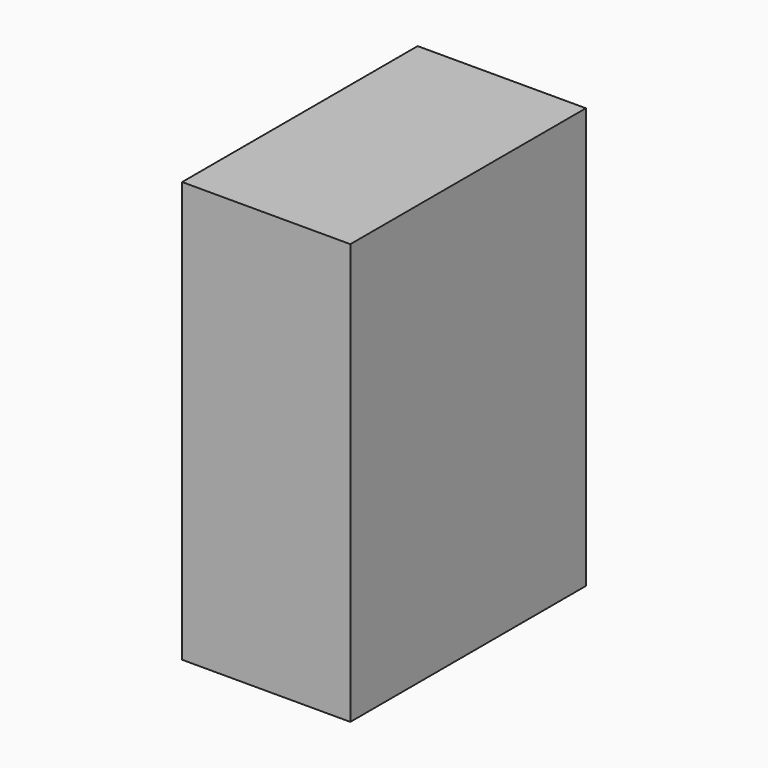
from build123d import *

# Parameters (mm, degrees)
SKETCH_W  = 20
SKETCH_H  = 35
PAD_DEPTH = 50


with BuildPart() as part:
    # Sketch → Pad (new body)
    with BuildSketch(Plane.XY):
        Rectangle(SKETCH_W, SKETCH_H)
    extrude(amount=PAD_DEPTH)


solid = part.part
